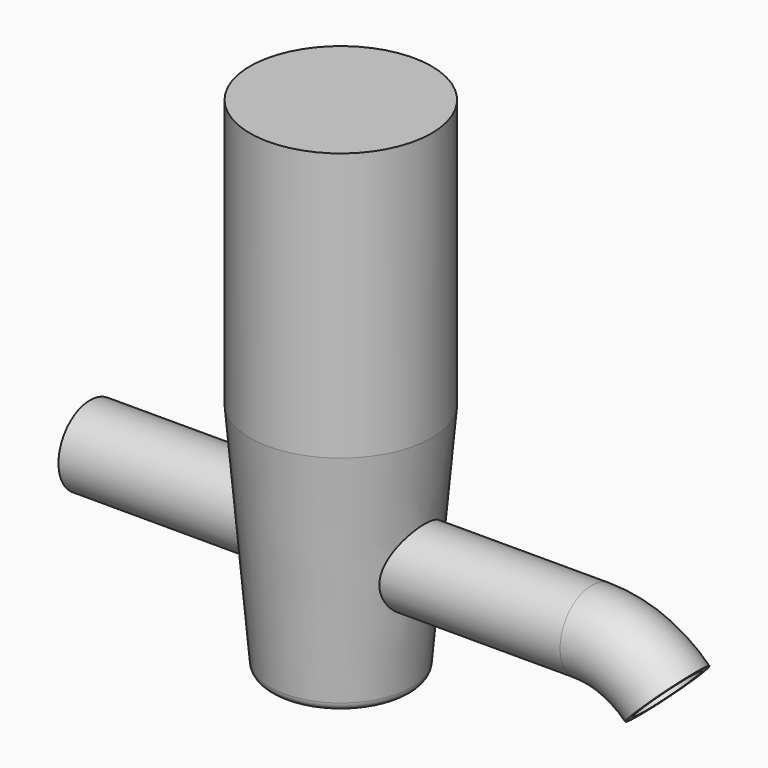
from build123d import *

# Parameters (mm, degrees)
F2_R         = 84.15
F3_DEPTH     = 535
F5_D         = 137.8
F3_FACE1_R   = 84.15
F3_FACE1_R_2 = 68.9


with BuildPart() as f1:
    # F0 (on Front) → F1 (revolve)
    with BuildSketch(Plane.XZ):
        with BuildLine():
            Line((86.0478096959, 0), (0, 0))
            Line((0, 0), (0, -50))
            Line((0, -50), (131.6733765197, -50))
            ThreePointArc((131.6733765197, -50), (145.185180672, -44.7455467362), (151.5972704815, -31.743114855))
            Line((151.5972704815, -31.743114855), (193.744331763, 450))
            Line((193.744331763, 450), (193.744331763, 1022.2607851028))
            Line((193.744331763, 1022.2607851028), (0, 1022.2607851028))
            Line((0, 1022.2607851028), (0, 892.1018242836))
            Line((0, 892.1018242836), (143.744331763, 892.1018242836))
            Line((143.744331763, 892.1018242836), (143.744331763, 450))
            Line((143.744331763, 450), (105.9717036578, 18.256885145))
            ThreePointArc((105.9717036578, 18.256885145), (99.5596138483, 5.2544532638), (86.0478096959, 0))
        make_face()
    revolve(axis=Axis((0, 0, -25), (0, 0, -1)))

    # F2 (on Right) → F3 (join, symmetric)
    with BuildSketch(Plane.YZ):
        with Locations((0, 200)):
            Circle(F2_R)
    extrude(amount=F3_DEPTH, both=True)

    # F5 (through all)
    with Locations(Plane(origin=(-535, 0, 0), x_dir=(0, -1, 0), z_dir=(-1, 0, 0))):
        with Locations((0, 200)):
            Hole(F5_D / 2)

    # F8: sweep along a path in F7
    with BuildLine(Plane(origin=(0, 0, 0), x_dir=(-1, 0, 0), z_dir=(0, 1, 0))) as f8_path:
        ThreePointArc((-535, 200), (-622.4814326387, 182.5988611321), (-696.6446101792, 133.0446101792))
    # F3_face1 (on face) → F8 (sweep)
    with BuildSketch(Plane(origin=(535, 0, 200), x_dir=(0, 1, 0), z_dir=(1, 0, 0))):
        Circle(F3_FACE1_R)
        Circle(F3_FACE1_R_2, mode=Mode.SUBTRACT)
    sweep(path=f8_path.line)


solid = f1.part
